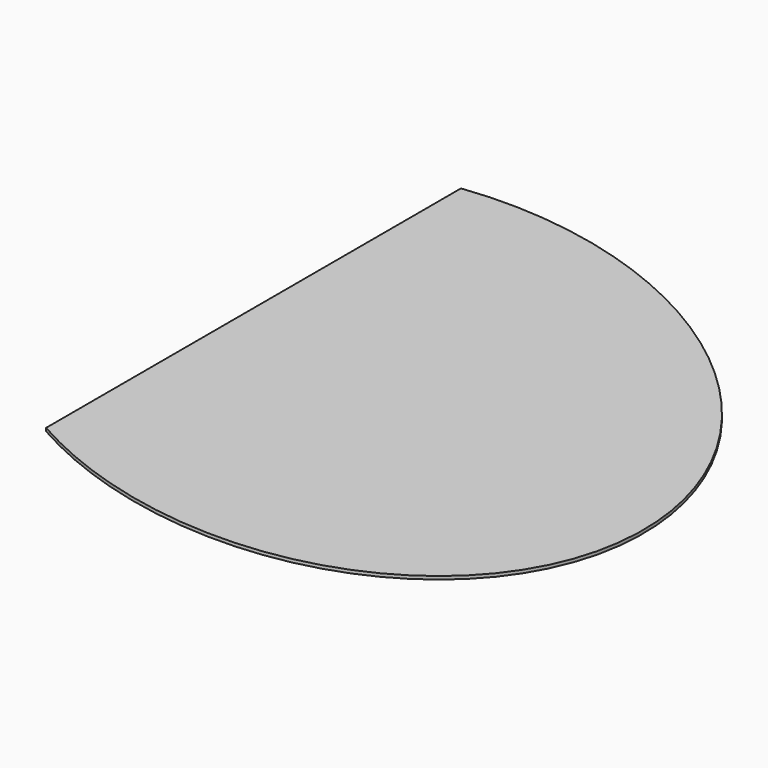
from build123d import *

# Parameters (mm, degrees)
F2_R     = 300
F3_DEPTH = 1.5
F4_DEPTH = 75


with BuildPart() as f3:
    # F2 (on face) → F3 (new body, symmetric)
    with BuildSketch(Plane(origin=(0, 0, 0), x_dir=(0.984808, 0, -0.173648), z_dir=(-0.173648, 0, -0.984808))):
        Circle(F2_R)
    extrude(amount=F3_DEPTH, both=True)

    # F0 (on Top) → F4 (intersect, symmetric)
    with BuildSketch(Plane.XY):
        with BuildLine():
            Line((-105, 250.916321), (-105, -250.916321))
            ThreePointArc((-105, -250.916321), (272, 0), (-105, 250.916321))
        make_face()
    extrude(amount=F4_DEPTH, both=True, mode=Mode.INTERSECT)


solid = f3.part
